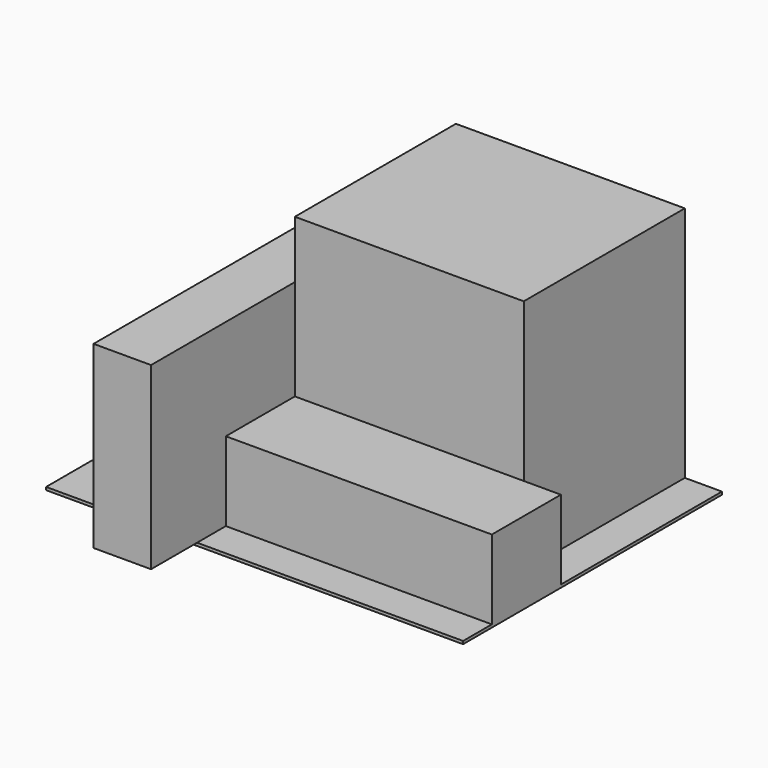
from build123d import *

# Parameters (mm, degrees)
F0_W     = 290
F0_H     = 225
F1_DEPTH = 2
F2_W     = 40
F2_H     = 225
F2_H_2   = 40
F3_DEPTH = 125
F4_W     = 185
F4_H     = 140
F5_DEPTH = 165
F6_W     = 185
F6_H     = 60
F7_DEPTH = 55
F8_W     = 25.804932
F8_H     = 140
F9_DEPTH = 165


with BuildPart() as f1:
    # F0 (on Top) → F1 (new body)
    with BuildSketch(Plane.XY):
        with Locations((31.78409, 48.083462)):
            Rectangle(F0_W, F0_H)
    extrude(amount=F1_DEPTH)

    # F2 (on face) → F3 (join)
    with BuildSketch(Plane.XY.offset(2)):
        with Locations((-28.21591, 48.083462)):
            Rectangle(F2_W, F2_H)
        with Locations((-28.21591, -84.416538)):
            Rectangle(F2_W, F2_H_2)
    extrude(amount=F3_DEPTH)

    # F4 (on face) → F5 (join)
    with BuildSketch(Plane.XY.offset(2)):
        with Locations((84.28409, 90.583462)):
            Rectangle(F4_W, F4_H)
    extrude(amount=F5_DEPTH)

    # F6 (on face) → F7 (join)
    with BuildSketch(Plane.XY.offset(2)):
        with Locations((84.28409, -9.416538)):
            Rectangle(F6_W, F6_H)
    extrude(amount=F7_DEPTH)

    # F8 (on face) → F9 (cut)
    with BuildSketch(Plane.XY.offset(167)):
        with Locations((163.881624, 90.583462)):
            Rectangle(F8_W, F8_H)
    extrude(amount=-F9_DEPTH, mode=Mode.SUBTRACT)


solid = f1.part
